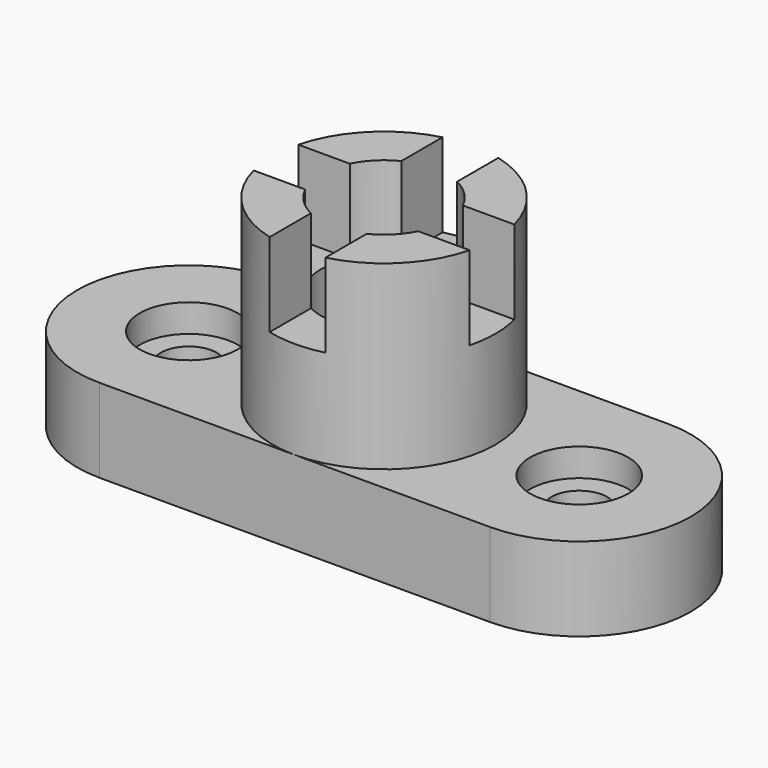
from build123d import *

# Parameters (mm, degrees)
F1_DEPTH  = 9.525
F2_R      = 11.176
F3_DEPTH  = 6.35
F4_R      = 6.35
F5_DEPTH  = 19.05
F6_R      = 25.4
F7_DEPTH  = 50.8
F8_R      = 14.351
F9_DEPTH  = 31.75
F11_DEPTH = 19.05
F12_DEPTH = 19.05


with BuildPart() as f1:
    # F0 (on Top) → F1 (new body, symmetric)
    with BuildSketch(Plane.XY):
        with BuildLine():
            ThreePointArc((0, 25.4), (-25.4, 0), (0, -25.4))
            Line((0, -25.4), (88.9, -25.4))
            ThreePointArc((88.9, -25.4), (114.3, 0), (88.9, 25.4))
            Line((88.9, 25.4), (0, 25.4))
        make_face()
    extrude(amount=F1_DEPTH, both=True)

    # F2 (on face) → F3 (cut)
    with BuildSketch(Plane.XY.offset(9.525)):
        Circle(F2_R)
        with Locations((88.9, 0)):
            Circle(F2_R)
    extrude(amount=-F3_DEPTH, mode=Mode.SUBTRACT)

    # F4 (on face) → F5 (cut)
    with BuildSketch(Plane.XY.offset(9.525)):
        Circle(F4_R)
        with Locations((88.9, 0)):
            Circle(F4_R)
    extrude(amount=-F5_DEPTH, mode=Mode.SUBTRACT)

    # F6 (on Top) → F7 (join)
    with BuildSketch(Plane.XY):
        with Locations((44.45, 0)):
            Circle(F6_R)
    extrude(amount=F7_DEPTH)

    # F8 (on face) → F9 (cut)
    with BuildSketch(Plane.XY.offset(50.8)):
        with Locations((44.45, 0)):
            Circle(F8_R)
    extrude(amount=-F9_DEPTH, mode=Mode.SUBTRACT)

    # F10 (on face) → F11 (cut)
    with BuildSketch(Plane.XY.offset(50.8)):
        with BuildLine():
            Line((31.580319, 6.35), (19.856556, 6.35))
            ThreePointArc((19.856556, 6.35), (19.05, 0), (19.856556, -6.35))
            Line((19.856556, -6.35), (31.580319, -6.35))
            ThreePointArc((31.580319, -6.35), (30.099, 0), (31.580319, 6.35))
        make_face()
        with BuildLine():
            ThreePointArc((50.8, -12.869681), (44.45, -14.351), (38.1, -12.869681))
            Line((38.1, -12.869681), (38.1, -24.593444))
            ThreePointArc((38.1, -24.593444), (44.45, -25.4), (50.8, -24.593444))
            Line((50.8, -24.593444), (50.8, -12.869681))
        make_face()
        with BuildLine():
            ThreePointArc((57.319681, 6.35), (58.801, 0), (57.319681, -6.35))
            Line((57.319681, -6.35), (69.043444, -6.35))
            ThreePointArc((69.043444, -6.35), (69.85, 0), (69.043444, 6.35))
            Line((69.043444, 6.35), (57.319681, 6.35))
        make_face()
        with BuildLine():
            ThreePointArc((38.1, 12.869681), (44.45, 14.351), (50.8, 12.869681))
            Line((50.8, 12.869681), (50.8, 24.593444))
            ThreePointArc((50.8, 24.593444), (44.45, 25.4), (38.1, 24.593444))
            Line((38.1, 24.593444), (38.1, 12.869681))
        make_face()
    extrude(amount=-F11_DEPTH, mode=Mode.SUBTRACT)

    # F10 (on face) → F12 (cut)
    with BuildSketch(Plane.XY.offset(50.8)):
        with BuildLine():
            Line((31.580319, 6.35), (19.856556, 6.35))
            ThreePointArc((19.856556, 6.35), (19.05, 0), (19.856556, -6.35))
            Line((19.856556, -6.35), (31.580319, -6.35))
            ThreePointArc((31.580319, -6.35), (30.099, 0), (31.580319, 6.35))
        make_face()
        with BuildLine():
            ThreePointArc((50.8, -12.869681), (44.45, -14.351), (38.1, -12.869681))
            Line((38.1, -12.869681), (38.1, -24.593444))
            ThreePointArc((38.1, -24.593444), (44.45, -25.4), (50.8, -24.593444))
            Line((50.8, -24.593444), (50.8, -12.869681))
        make_face()
        with BuildLine():
            ThreePointArc((57.319681, 6.35), (58.801, 0), (57.319681, -6.35))
            Line((57.319681, -6.35), (69.043444, -6.35))
            ThreePointArc((69.043444, -6.35), (69.85, 0), (69.043444, 6.35))
            Line((69.043444, 6.35), (57.319681, 6.35))
        make_face()
        with BuildLine():
            ThreePointArc((38.1, 12.869681), (44.45, 14.351), (50.8, 12.869681))
            Line((50.8, 12.869681), (50.8, 24.593444))
            ThreePointArc((50.8, 24.593444), (44.45, 25.4), (38.1, 24.593444))
            Line((38.1, 24.593444), (38.1, 12.869681))
        make_face()
    extrude(amount=-F12_DEPTH, mode=Mode.SUBTRACT)


solid = f1.part
